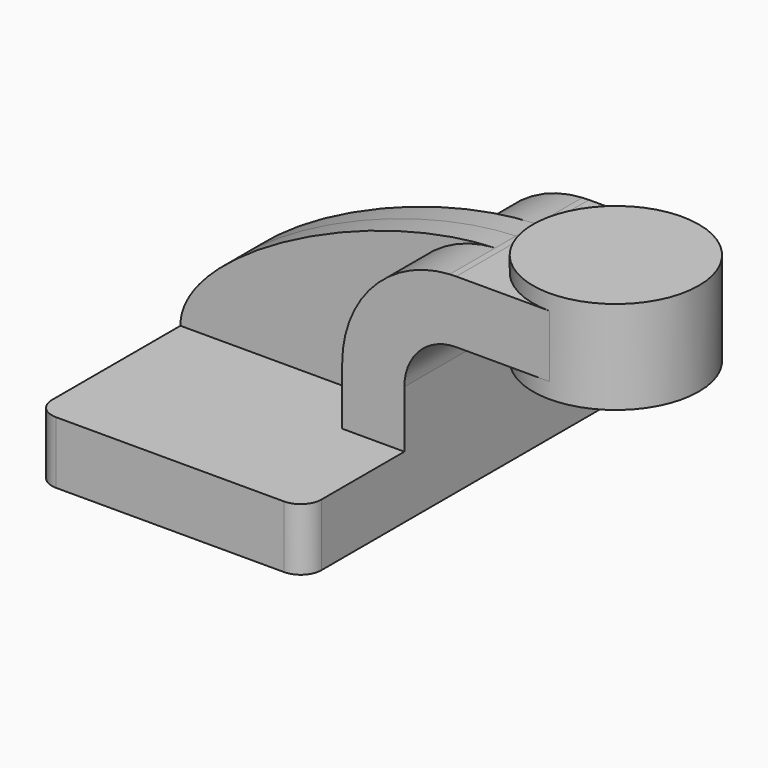
from build123d import *

# Parameters (mm, degrees)
F1_DEPTH = 63.5
F0_W     = 25.4
F0_H     = 19.05
F2_DEPTH = 25.4
F3_DEPTH = 7.9375
F5_R     = 6.35


with BuildPart() as f1:
    # F0 (on Front) → F1 (new body, symmetric)
    with BuildSketch(Plane.XZ):
        Polygon((41.275, -9.525), (41.275, 9.525), (22.225, 9.525), (-41.275, 9.525), (-41.275, -9.525), align=None)
    extrude(amount=F1_DEPTH, both=True)

    # F0 (on Front) → F2 (join, symmetric)
    with BuildSketch(Plane.XZ):
        with BuildLine():
            Line((57.15, 42.8752), (60.325, 42.8752))
            Line((60.325, 42.8752), (60.325, 61.9252))
            Line((60.325, 61.9252), (57.15, 61.9252))
            add(Edge.make_bspline(
                [(55.1509005081, 61.8679390466), (55.8211077358, 61.8945082476), (56.4875740772, 61.9136481218), (57.15, 61.9252)],
                knots=[109.7218611873, 109.7218611873, 109.7218611873, 109.7218611873, 111.5045361635, 111.5045361635, 111.5045361635, 111.5045361635], degree=3))
            ThreePointArc((55.1509005081, 61.8679390466), (31.7573418607, 50.9787015717), (22.225, 27.0002))
            Line((22.225, 27.0002), (22.225, 9.525))
            Line((22.225, 9.525), (41.275, 9.525))
            Line((41.275, 9.525), (41.275, 27.0002))
            ThreePointArc((41.275, 27.0002), (45.9246798487, 38.2255201513), (57.15, 42.8752))
        make_face()
        with Locations((73.025, 52.4002)):
            Rectangle(F0_W, F0_H)
    extrude(amount=F2_DEPTH, both=True)

    # F0 (on Front) → F3 (join, symmetric)
    with BuildSketch(Plane.XZ):
        with BuildLine():
            ThreePointArc((22.225, 27.0002), (31.7573418607, 50.9787015717), (55.1509005081, 61.8679390466))
            add(Edge.make_bspline(
                [(-41.275, 9.525), (-41.5217901281, 30.4529584249), (13.9003161981, 60.2326313083), (55.1509005081, 61.8679390466)],
                knots=[0, 0, 0, 0, 109.7218611873, 109.7218611873, 109.7218611873, 109.7218611873], degree=3))
            Line((-41.275, 9.525), (22.225, 9.525))
            Line((22.225, 9.525), (22.225, 27.0002))
        make_face()
    extrude(amount=F3_DEPTH, both=True)

    # F0 (on Front) → F4 (revolve)
    with BuildSketch(Plane.XZ):
        Polygon((85.725, 38.1), (111.125, 38.1), (111.125, 66.675), (85.725, 66.675), (85.725, 61.9252), (85.725, 42.8752), align=None)
    revolve(axis=Axis((85.725, 0, 52.3875), (0, 0, 1)))

    # F5
    f5_edges = [f1.edges().sort_by_distance(p)[0] for p in [
        (41.275, -63.5, 0),
        (-41.275, -63.5, 0),
        (41.275, 63.5, 0),
        (-41.275, 63.5, 0),
    ]]
    fillet(f5_edges, radius=F5_R)


solid = f1.part
